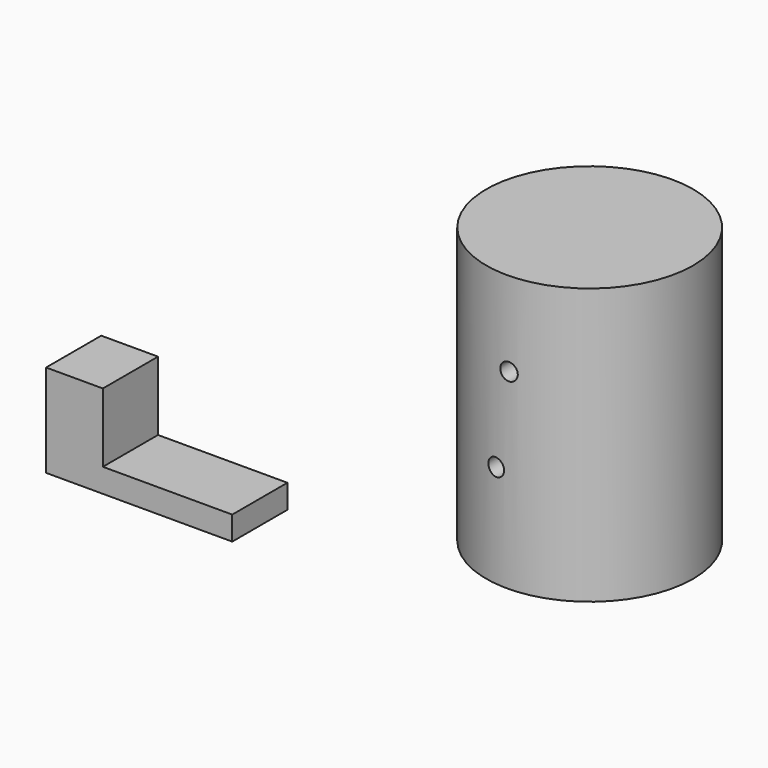
from build123d import *

# Parameters (mm, degrees)
F0_W     = 68.577282
F0_H     = 8.77474
F1_DEPTH = 25.4
F2_W     = 20.915847
F2_H     = 25.4
F3_DEPTH = 25.4
F4_R     = 38.1
F5_DEPTH = 101.6
F7_D     = 6.35
F9_D     = 6.35


with BuildPart() as f1:
    # F0 (on Front) → F1 (new body)
    with BuildSketch(Plane.XZ):
        with Locations((-34.288641, 4.38737)):
            Rectangle(F0_W, F0_H)
    extrude(amount=F1_DEPTH)

    # F2 (on face) → F3 (join)
    with BuildSketch(Plane.XY.offset(8.77474)):
        with Locations((-58.119358, -12.7)):
            Rectangle(F2_W, F2_H)
    extrude(amount=F3_DEPTH)


with BuildPart() as f5:
    # F4 (on Top) → F5 (new body)
    with BuildSketch(Plane.XY):
        with Locations((79.904541, 39.315209)):
            Circle(F4_R)
    extrude(amount=F5_DEPTH)

    # F7 (through all)
    with Locations(Plane.XZ):
        with Locations((80.562241, 70.522875)):
            Hole(F7_D / 2)

    # F9 (through all)
    with Locations(Plane.XZ):
        with Locations((75.657621, 37.869122)):
            Hole(F9_D / 2)


solid = Compound([f1.part, f5.part])
